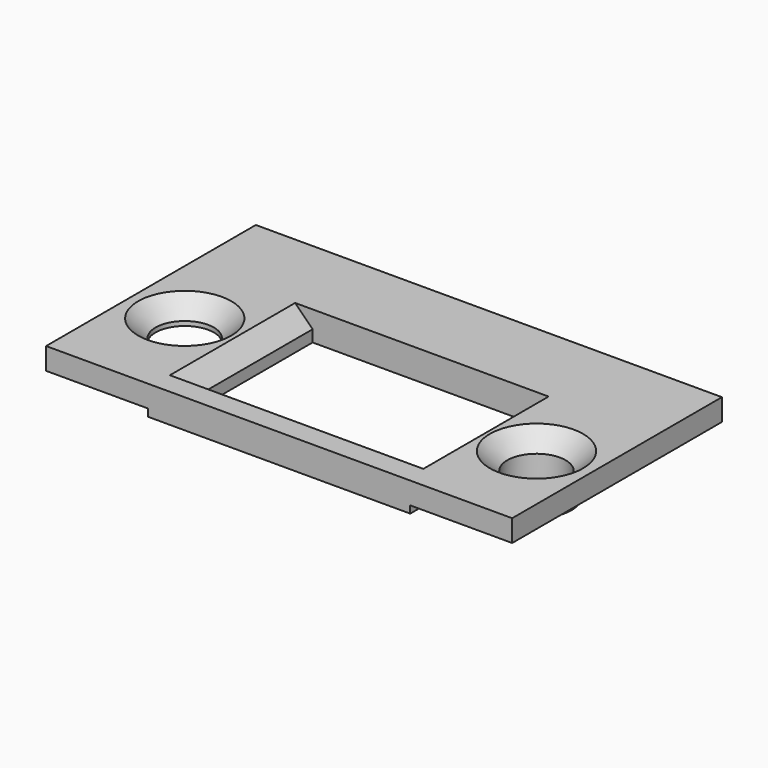
from build123d import *

# Parameters (mm, degrees)
SKETCH038_W      = 36
SKETCH038_H      = 27.5
SKETCH038_W_2    = 30
SKETCH038_H_2    = 21.5
EXTRUDE026_DEPTH = 1
SKETCH039_R      = 4.8
SKETCH039_R_2    = 4
EXTRUDE027_DEPTH = 2.6
SKETCH037_W      = 64
SKETCH037_H      = 36
SKETCH037_R      = 4
SKETCH037_W_2    = 30
SKETCH037_H_2    = 21.5
EXTRUDE025_DEPTH = 3
CHAMFER_SIZE     = 2.4


with BuildPart() as basebevel001:
    # Sketch038 → Extrude026 (new body)
    with BuildSketch(Plane.XY):
        with Locations((34, 97.75)):
            Rectangle(SKETCH038_W, SKETCH038_H)
        with Locations((34, 97.75)):
            Rectangle(SKETCH038_W_2, SKETCH038_H_2, mode=Mode.SUBTRACT)
    extrude(amount=EXTRUDE026_DEPTH)


with BuildPart() as basebevel001_1:
    # Extrude026 placement: moved
    add(basebevel001.part.moved(Location((0, 0, 6.6))))


with BuildPart() as basebutton_t001:
    # Sketch039 → Extrude027 (new body)
    with BuildSketch(Plane.XY):
        with Locations((58.3, 97.8)):
            Circle(SKETCH039_R)
        with Locations((58.3, 97.8)):
            Circle(SKETCH039_R_2, mode=Mode.SUBTRACT)
    extrude(amount=EXTRUDE027_DEPTH)


with BuildPart() as basebutton_t001_1:
    # Extrude027 placement: moved
    add(basebutton_t001.part.moved(Location((0, 0, 5))))


with BuildPart() as obj1:
    # Sketch037 → Extrude025 (new body)
    with BuildSketch(Plane.XY):
        with Locations((34, 102)):
            Rectangle(SKETCH037_W, SKETCH037_H)
        with Locations((9.6, 98.3)):
            Circle(SKETCH037_R, mode=Mode.SUBTRACT)
        with Locations((58.3, 97.8)):
            Circle(SKETCH037_R, mode=Mode.SUBTRACT)
        with Locations((34, 97.75)):
            Rectangle(SKETCH037_W_2, SKETCH037_H_2, mode=Mode.SUBTRACT)
    extrude(amount=EXTRUDE025_DEPTH)


with BuildPart() as obj1_1:
    # Extrude025 placement: moved
    add(obj1.part.moved(Location((0, 0, 7.6))))

    # Fusion015: union basebevel001, basebutton_t001
    add(basebevel001_1.part)
    add(basebutton_t001_1.part)

    # Chamfer
    chamfer_edges = [obj1_1.edges().sort_by_distance(p)[0] for p in [
        (54.3, 97.8, 10.6),
        (5.6, 98.3, 10.6),
        (49, 97.75, 10.6),
        (19, 97.75, 10.6),
    ]]
    chamfer(chamfer_edges, length=CHAMFER_SIZE)


solid = obj1_1.part
